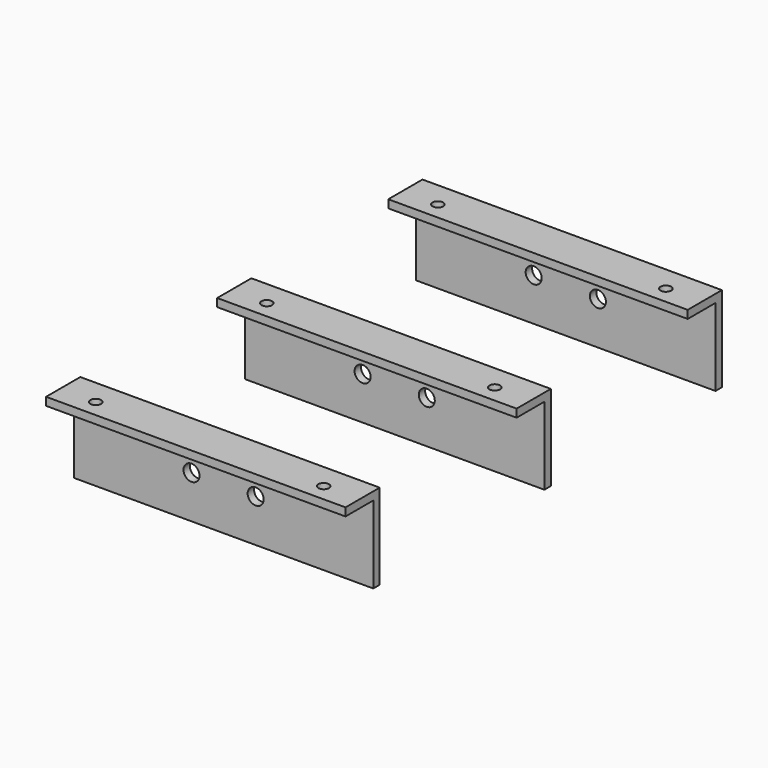
from build123d import *

# Parameters (mm, degrees)
F1_DEPTH = 88.9
F2_R     = 4.7625
F3_DEPTH = 279.401
F4_R     = 3.175
F5_DEPTH = 50.801


with BuildPart() as f1:
    # F0 (on Right) → F1 (new body, symmetric)
    with BuildSketch(Plane.YZ):
        Polygon((0, 46.0375), (0, 0), (4.7625, 0), (4.7625, 50.8), (-20.6375, 50.8), (-20.6375, 46.0375), align=None)
        Polygon((106.3625, 46.0375), (127, 46.0375), (127, 0), (131.7625, 0), (131.7625, 50.8), (106.3625, 50.8), align=None)
        Polygon((233.3625, 46.0375), (254, 46.0375), (254, 0), (258.7625, 0), (258.7625, 50.8), (233.3625, 50.8), align=None)
    extrude(amount=F1_DEPTH, both=True)

    # F2 (on face) → F3 (cut, through all)
    with BuildSketch(Plane(origin=(0, 258.7625, 0), x_dir=(-1, 0, 0), z_dir=(0, 1, 0))):
        with Locations((-19.05, 25.4)):
            Circle(F2_R)
        with Locations((19.05, 25.4)):
            Circle(F2_R)
    extrude(amount=-F3_DEPTH, mode=Mode.SUBTRACT)

    # F4 (on face) → F5 (cut, through all)
    with BuildSketch(Plane.XY.offset(50.8)):
        with Locations((-67.691, 243.68125)):
            Circle(F4_R)
        with Locations((-67.691, 116.68125)):
            Circle(F4_R)
        with Locations((-67.691, -10.31875)):
            Circle(F4_R)
        with Locations((67.691, 243.68125)):
            Circle(F4_R)
        with Locations((67.691, 116.68125)):
            Circle(F4_R)
        with Locations((67.691, -10.31875)):
            Circle(F4_R)
    extrude(amount=-F5_DEPTH, mode=Mode.SUBTRACT)


solid = f1.part
